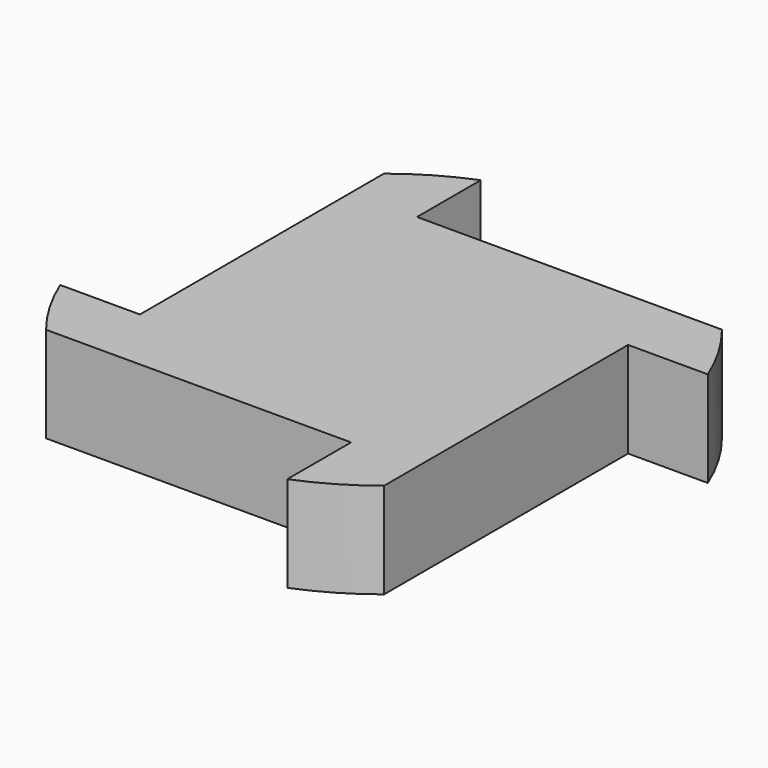
from build123d import *

# Parameters (mm, degrees)
F0_W     = 25.4
F0_H     = 25.4
F1_DEPTH = 7.366
F3_DEPTH = 7.366


with BuildPart() as f1:
    # F0 (on Top) → F1 (new body)
    with BuildSketch(Plane.XY):
        with Locations((12.7, 12.7)):
            Rectangle(F0_W, F0_H)
    extrude(amount=F1_DEPTH)

    # F2 (on Top) → F3 (join)
    with BuildSketch(Plane.XY):
        with BuildLine():
            Line((5.08, 25.4), (5.08, 31.537144))
            ThreePointArc((5.08, 31.537144), (2.431698, 30.234662), (0, 28.562295))
            Line((0, 28.562295), (0, 25.4))
            Line((0, 25.4), (5.08, 25.4))
        make_face()
        with BuildLine():
            Line((28.562295, 25.4), (25.4, 25.4))
            Line((25.4, 25.4), (25.4, 20.32))
            Line((25.4, 20.32), (31.537144, 20.32))
            ThreePointArc((31.537144, 20.32), (30.234662, 22.968302), (28.562295, 25.4))
        make_face()
        with BuildLine():
            Line((25.4, -3.162295), (25.4, 0))
            Line((25.4, 0), (20.32, 0))
            Line((20.32, 0), (20.32, -6.137144))
            ThreePointArc((20.32, -6.137144), (22.968302, -4.834662), (25.4, -3.162295))
        make_face()
        with BuildLine():
            Line((-3.162295, 0), (0, 0))
            Line((0, 0), (0, 5.08))
            Line((0, 5.08), (-6.137144, 5.08))
            ThreePointArc((-6.137144, 5.08), (-4.834662, 2.431698), (-3.162295, 0))
        make_face()
    extrude(amount=F3_DEPTH)


solid = f1.part
